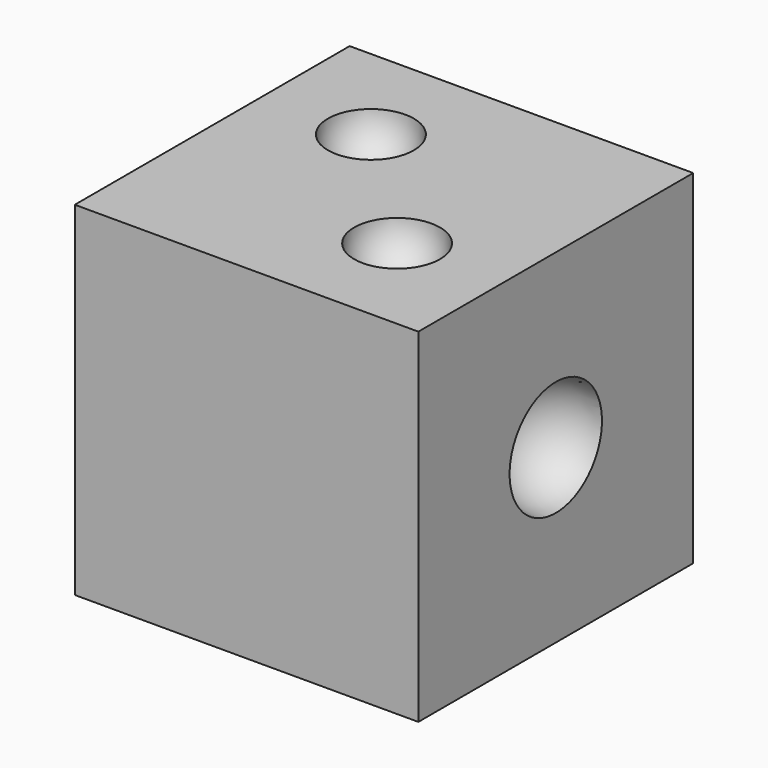
from build123d import *

# Parameters (mm, degrees)
F0_W     = 50.8
F0_H     = 50.8
F1_DEPTH = 50.8


with BuildPart() as f1:
    # F0 (on Front) → F1 (new body)
    with BuildSketch(Plane.XZ):
        with Locations((-25.4, 25.4)):
            Rectangle(F0_W, F0_H)
    extrude(amount=F1_DEPTH)

    # F2 (on face) → F3 (revolve, cut)
    with BuildSketch(Plane.YZ):
        with BuildLine():
            Line((-19.3643093263, 19.3643093263), (-31.4356906737, 31.4356906737))
            ThreePointArc((-31.4356906737, 31.4356906737), (-31.4356906737, 19.3643093263), (-19.3643093263, 19.3643093263))
        make_face()
    revolve(axis=Axis((0, -25.4, 25.4), (0, 0.7071067812, -0.7071067812)), mode=Mode.SUBTRACT)

    # F4 (on face) → F5 (revolve, cut)
    with BuildSketch(Plane.XY.offset(50.8)):
        with BuildLine():
            ThreePointArc((-28.7345517881, -15.7154482119), (-32.6545119926, -9.8488131804), (-39.5746798487, -11.2253201513))
            Line((-39.5746798487, -11.2253201513), (-30.5944237276, -20.2055762724))
            ThreePointArc((-30.5944237276, -20.2055762724), (-29.2179167567, -18.1454880074), (-28.7345517881, -15.7154482119))
        make_face()
        with BuildLine():
            ThreePointArc((-9.3654482119, -35.0845517881), (-13.2854084164, -29.2179167567), (-20.2055762724, -30.5944237276))
            Line((-20.2055762724, -30.5944237276), (-11.2253201513, -39.5746798487))
            ThreePointArc((-11.2253201513, -39.5746798487), (-9.8488131804, -37.5145915836), (-9.3654482119, -35.0845517881))
        make_face()
    revolve(axis=Axis((-25.4, -25.4, 50.8), (0.7071067812, -0.7071067812, 0)), mode=Mode.SUBTRACT)


solid = f1.part
